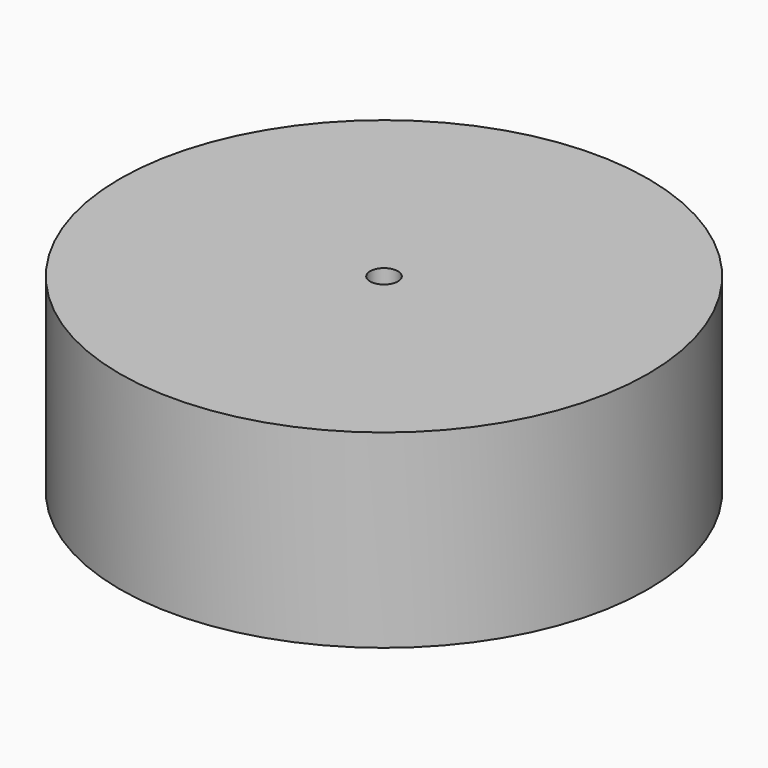
from build123d import *

# Parameters (mm, degrees)
F0_R     = 38.91915
F1_DEPTH = 27.94
F2_R     = 2.04978
F3_DEPTH = 27.94


with BuildPart() as f1:
    # F0 (on Top) → F1 (new body)
    with BuildSketch(Plane.XY):
        with Locations((-49.258661, -49.290244)):
            Circle(F0_R)
    extrude(amount=F1_DEPTH)

    # F2 (on face) → F3 (cut, through all)
    with BuildSketch(Plane.XY.offset(27.94)):
        with Locations((-49.258661, -49.290244)):
            Circle(F2_R)
    extrude(amount=-F3_DEPTH, mode=Mode.SUBTRACT)


solid = f1.part
